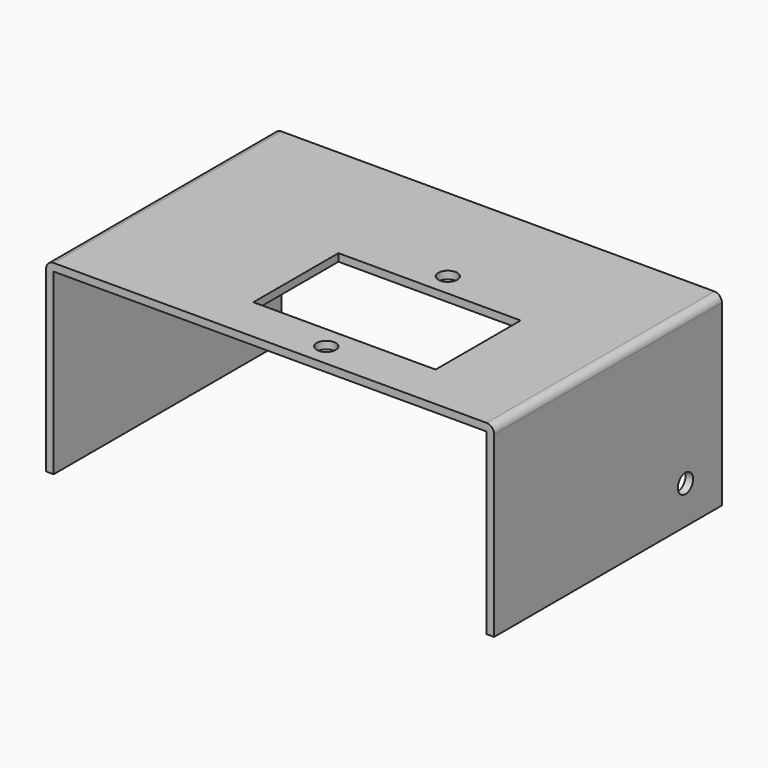
from build123d import *

# Parameters (mm, degrees)
F0_W      = 118
F0_H      = 75
F1_DEPTH  = 2
F2_W      = 48
F2_H      = 28
F2_R      = 2.5
F3_DEPTH  = 25
F4_W      = 2
F4_H      = 75
F5_DEPTH  = 47
F6_R      = 2
F7_R      = 2.5
F8_DEPTH  = 25
F9_R      = 2.5
F10_DEPTH = 25


with BuildPart() as f1:
    # F0 (on Top) → F1 (new body)
    with BuildSketch(Plane.XY):
        Rectangle(F0_W, F0_H)
    extrude(amount=F1_DEPTH)

    # F2 (on face) → F3 (cut)
    with BuildSketch(Plane.XY.offset(2)):
        with Locations((10, -11.5)):
            Rectangle(F2_W, F2_H)
        with Locations((10, -31.5)):
            Circle(F2_R)
        with Locations((10, 8.5)):
            Circle(F2_R)
    extrude(amount=-F3_DEPTH, mode=Mode.SUBTRACT)

    # F4 (on face) → F5 (join)
    with BuildSketch(Plane(origin=(0, 0, 0), x_dir=(1, 0, 0), z_dir=(0, 0, -1))):
        with Locations((-58, 0)):
            Rectangle(F4_W, F4_H)
        with Locations((58, 0)):
            Rectangle(F4_W, F4_H)
    extrude(amount=F5_DEPTH)

    # F6
    f6_edges = [f1.edges().sort_by_distance(p)[0] for p in [
        (59, 0, 2),
        (-59, 0, 2),
    ]]
    fillet(f6_edges, radius=F6_R)

    # F7 (on face) → F8 (cut)
    with BuildSketch(Plane(origin=(-59, 0, 0), x_dir=(0, -1, 0), z_dir=(-1, 0, 0))):
        with Locations((-25.5, -37)):
            Circle(F7_R)
    extrude(amount=-F8_DEPTH, mode=Mode.SUBTRACT)

    # F9 (on face) → F10 (cut)
    with BuildSketch(Plane.YZ.offset(59)):
        with Locations((25.5, -37)):
            Circle(F9_R)
    extrude(amount=-F10_DEPTH, mode=Mode.SUBTRACT)


solid = f1.part
